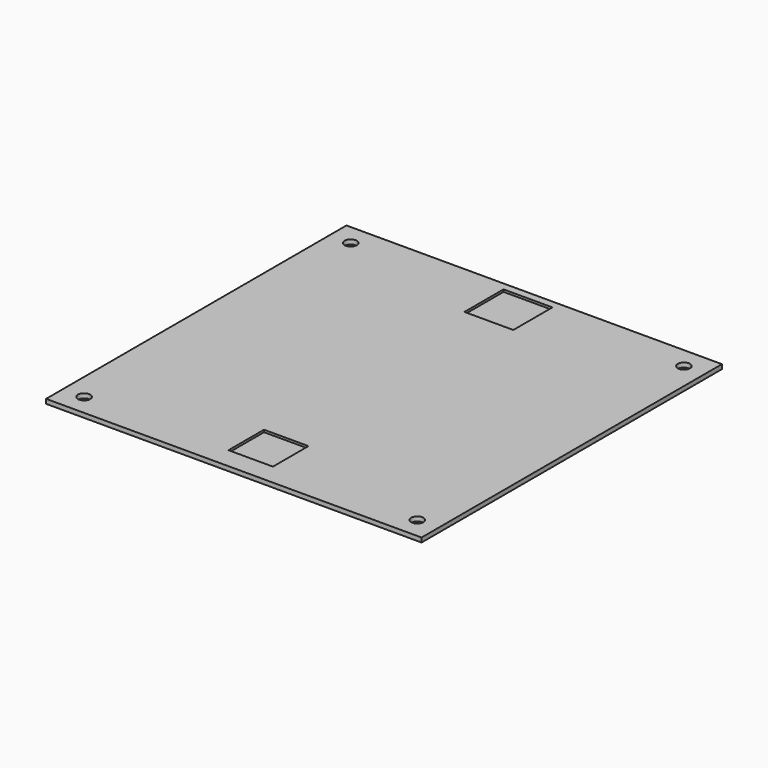
from build123d import *

# Parameters (mm, degrees)
SKETCH002_W      = 20
SKETCH002_H      = 20
SKETCH002_W_2    = 22
SKETCH002_H_2    = 22
EXTRUDE_DEPTH    = 1
SKETCH001_R      = 2.75
EXTRUDE002_DEPTH = 5
SKETCH_W         = 169
SKETCH_H         = 169
EXTRUDE001_DEPTH = 2


with BuildPart() as cutouts:
    # Sketch002 → Extrude (new body, symmetric)
    with BuildSketch(Plane.XY.offset(2)):
        with Locations((0, -65)):
            Rectangle(SKETCH002_W, SKETCH002_H)
        with Locations((0, 70)):
            Rectangle(SKETCH002_W_2, SKETCH002_H_2)
    extrude(amount=EXTRUDE_DEPTH, both=True)


with BuildPart() as mountholes:
    # Sketch001 → Extrude002 (new body, symmetric)
    with BuildSketch(Plane.XY.offset(2)):
        with Locations((-75, -75)):
            Circle(SKETCH001_R)
        with Locations((75, -75)):
            Circle(SKETCH001_R)
        with Locations((75, 75)):
            Circle(SKETCH001_R)
        with Locations((-75, 75)):
            Circle(SKETCH001_R)
    extrude(amount=EXTRUDE002_DEPTH, both=True)


with BuildPart() as cut001:
    # Sketch → Extrude001 (new body)
    with BuildSketch(Plane.XY):
        Rectangle(SKETCH_W, SKETCH_H)
    extrude(amount=EXTRUDE001_DEPTH)

    # Cut: cut MountHoles
    add(mountholes.part, mode=Mode.SUBTRACT)

    # Cut001: cut Cutouts
    add(cutouts.part, mode=Mode.SUBTRACT)


solid = cut001.part
